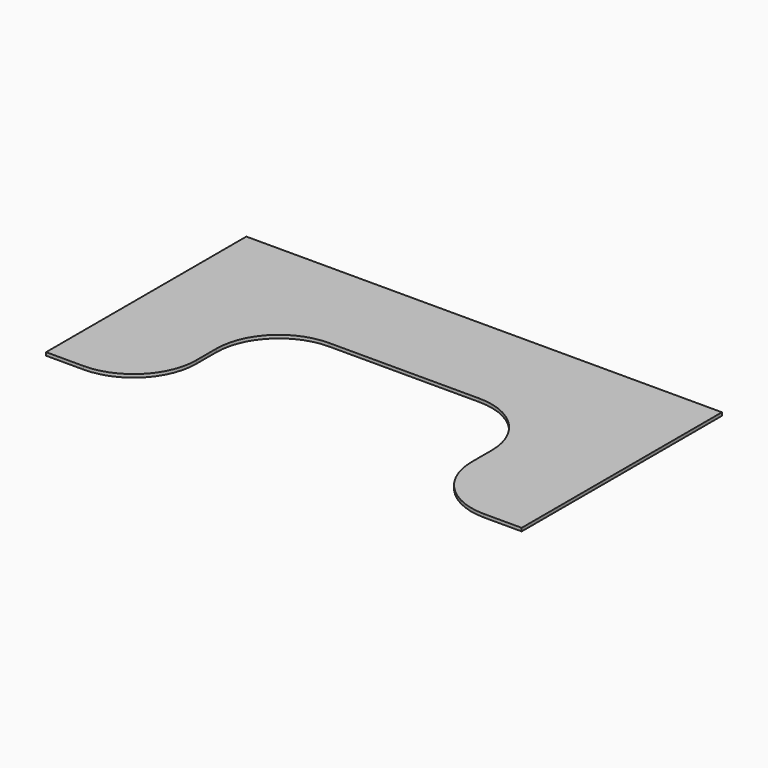
from build123d import *

# Parameters (mm, degrees)
F1_DEPTH = 25.4


with BuildPart() as f1:
    # F0 (on Top) → F1 (new body)
    with BuildSketch(Plane.XY):
        with BuildLine():
            Line((0, -2000), (0, 0))
            Line((0, 0), (-3800, 0))
            Line((-3800, 0), (-3800, -2000))
            Line((-3800, -2000), (-3500, -2000))
            ThreePointArc((-3500, -2000), (-3146.446609, -1853.553391), (-3000, -1500))
            Line((-3000, -1500), (-3000, -1300))
            ThreePointArc((-3000, -1300), (-2853.553391, -946.446609), (-2500, -800))
            Line((-2500, -800), (-1300, -800))
            ThreePointArc((-1300, -800), (-946.446609, -946.446609), (-800, -1300))
            Line((-800, -1300), (-800, -1500))
            ThreePointArc((-800, -1500), (-653.553391, -1853.553391), (-300, -2000))
            Line((-300, -2000), (0, -2000))
        make_face()
    extrude(amount=F1_DEPTH)


solid = f1.part
